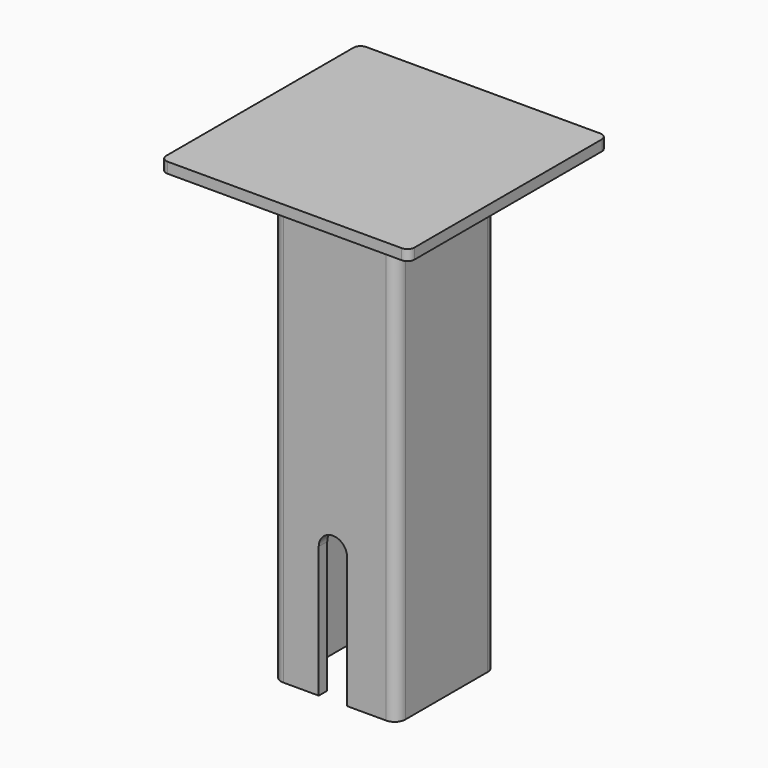
from build123d import *

# Parameters (mm, degrees)
F0_W     = 70
F0_H     = 70
F0_W_2   = 35
F0_H_2   = 35
F0_W_3   = 28
F0_H_3   = 28
F1_DEPTH = 3
F2_DEPTH = 130
F3_R     = 2
F5_DEPTH = 35
F6_R     = 3


with BuildPart() as f1:
    # F0 (on Top) → F1 (new body)
    with BuildSketch(Plane.XY):
        with Locations((-0.5, -3.077668637)):
            Rectangle(F0_W, F0_H)
        with Locations((0, -3.577668637)):
            Rectangle(F0_W_2, F0_H_2, mode=Mode.SUBTRACT)
        with Locations((-0.5, -3.077668637)):
            Rectangle(F0_W, F0_H)
        with Locations((0, -3.577668637)):
            Rectangle(F0_W_2, F0_H_2, mode=Mode.SUBTRACT)
        with Locations((0, -3.577668637)):
            Rectangle(F0_W_2, F0_H_2)
        with Locations((-0.5, -4.077668637)):
            Rectangle(F0_W_3, F0_H_3, mode=Mode.SUBTRACT)
        with Locations((-0.5, -4.077668637)):
            Rectangle(F0_W_3, F0_H_3)
    extrude(amount=-F1_DEPTH)

    # F0 (on Top) → F2 (join)
    with BuildSketch(Plane.XY):
        with Locations((0, -3.577668637)):
            Rectangle(F0_W_2, F0_H_2)
        with Locations((-0.5, -4.077668637)):
            Rectangle(F0_W_3, F0_H_3, mode=Mode.SUBTRACT)
    extrude(amount=-F2_DEPTH)

    # F3
    f3_edges = [f1.edges().sort_by_distance(p)[0] for p in [
        (-35.5, -38.077669, -1.5),
        (34.5, -38.077669, -1.5),
        (-35.5, 31.922331, -1.5),
        (34.5, 31.922331, -1.5),
    ]]
    fillet(f3_edges, radius=F3_R)

    # F4 (on face) → F5 (cut)
    with BuildSketch(Plane.XZ.offset(21.077668637)):
        with BuildLine():
            Line((3.4348594004, -130), (-0.5, -130))
            Line((-0.5, -130), (-0.5, -163))
            ThreePointArc((-0.5, -163), (2.0616616825, -163.9278851869), (3.4348594004, -166.2810552877))
            Line((3.4348594004, -166.2810552877), (3.4348594004, -130))
        make_face()
        with BuildLine():
            ThreePointArc((-0.5, -163), (-3.3284271247, -164.1715728753), (-4.5, -167))
            ThreePointArc((-4.5, -167), (-0.8609448701, -170.9836815637), (3.4348594004, -167.7189447123))
            Line((3.4348594004, -167.7189447123), (3.4348594004, -166.2810552877))
            ThreePointArc((3.4348594004, -166.2810552877), (2.0616616825, -163.9278851869), (-0.5, -163))
        make_face()
        with BuildLine():
            Line((-0.5, -130), (-4.5, -130))
            Line((-4.5, -130), (-4.5, -167))
            ThreePointArc((-4.5, -167), (-3.3284271247, -164.1715728753), (-0.5, -163))
            Line((-0.5, -163), (-0.5, -130))
        make_face()
        with BuildLine():
            Line((-4.5, -93), (-4.5, -130))
            Line((-4.5, -130), (-0.5, -130))
            Line((-0.5, -130), (-0.5, -97))
            ThreePointArc((-0.5, -97), (-3.3284271247, -95.8284271247), (-4.5, -93))
        make_face()
        with BuildLine():
            Line((-0.5, -97), (-0.5, -130))
            Line((-0.5, -130), (3.4348594004, -130))
            Line((3.4348594004, -130), (3.4348594004, -93.7189447123))
            ThreePointArc((3.4348594004, -93.7189447123), (2.0616616825, -96.0721148131), (-0.5, -97))
        make_face()
        with BuildLine():
            ThreePointArc((3.4348594004, -92.2810552877), (-0.8609448701, -89.0163184363), (-4.5, -93))
            ThreePointArc((-4.5, -93), (-3.3284271247, -95.8284271247), (-0.5, -97))
            ThreePointArc((-0.5, -97), (2.0616616825, -96.0721148131), (3.4348594004, -93.7189447123))
            Line((3.4348594004, -93.7189447123), (3.4348594004, -92.2810552877))
        make_face()
    extrude(amount=-F5_DEPTH, mode=Mode.SUBTRACT)

    # F6
    f6_edges = [f1.edges().sort_by_distance(p)[0] for p in [
        (17.5, -21.077669, -66.5),
        (17.5, 13.922331, -66.5),
        (-17.5, -21.077669, -66.5),
        (-17.5, 13.922331, -66.5),
    ]]
    fillet(f6_edges, radius=F6_R)


solid = f1.part
